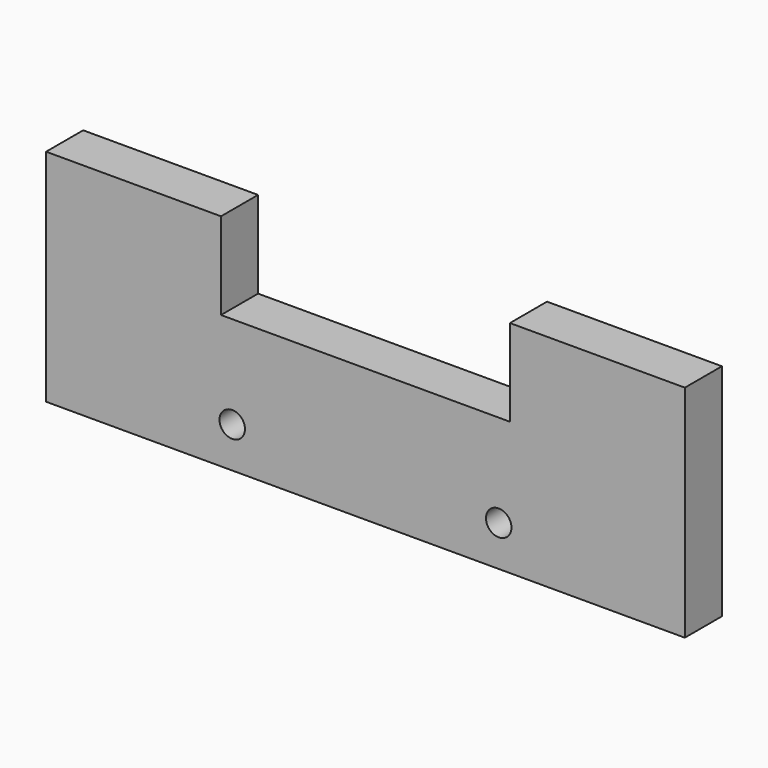
from build123d import *

# Parameters (mm, degrees)
F0_W     = 110
F0_H     = 38
F1_DEPTH = 8
F2_W     = 50
F2_H     = 15
F3_DEPTH = 25
F4_D     = 4.4


with BuildPart() as f1:
    # F0 (on Front) → F1 (new body)
    with BuildSketch(Plane.XZ):
        with Locations((-0.1309809089, -36.948600173)):
            Rectangle(F0_W, F0_H)
    extrude(amount=F1_DEPTH)

    # F2 (on face) → F3 (cut)
    with BuildSketch(Plane.XZ.offset(8)):
        with Locations((-0.0620441511, -25.448600173)):
            Rectangle(F2_W, F2_H)
    extrude(amount=-F3_DEPTH, mode=Mode.SUBTRACT)

    # F4 (through all)
    with Locations(Plane(origin=(0, 0, 0), x_dir=(1, 0, 0), z_dir=(0, 1, 0))):
        with Locations((-23, 48.948600173), (23, 48.948600173)):
            Hole(F4_D / 2)

    # F5: F1 across plane


with BuildPart() as f1_1:
    add(f1.part)
    add(f1.part.mirror(Plane.YZ))


solid = f1_1.part
